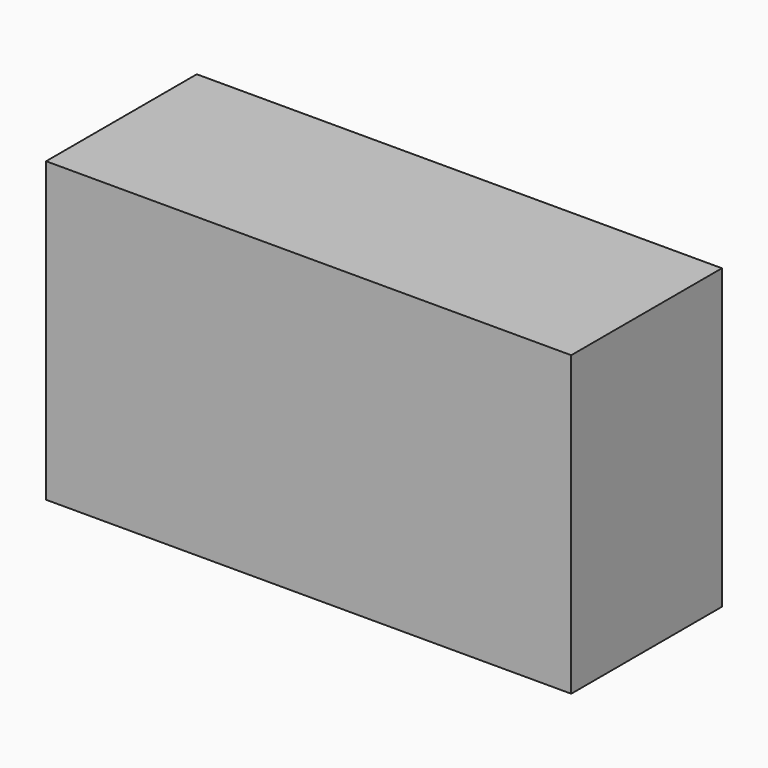
from build123d import *

# Parameters (mm, degrees)
F0_W     = 70.8139757626
F0_H     = 40.1884447783
F0_R     = 3.4207147562
F0_R_2   = 3.7382041879
F0_R_3   = 3.2776596079
F0_R_4   = 4.0769640404
F1_DEPTH = 25.4


with BuildPart() as f1:
    # F0 (on Front) → F1 (new body)
    with BuildSketch(Plane.XZ):
        with Locations((34.2290515546, 13.7905040756)):
            Rectangle(F0_W, F0_H)
        with Locations((8.6830137298, 3.9464100264)):
            Circle(F0_R, mode=Mode.SUBTRACT)
        with Locations((59.9546357989, 0)):
            Circle(F0_R_2, mode=Mode.SUBTRACT)
        with Locations((7.6532494277, 21.5003676713)):
            Circle(F0_R_3, mode=Mode.SUBTRACT)
        with Locations((58.860745281, 22.1815109253)):
            Circle(F0_R_4, mode=Mode.SUBTRACT)
        with Locations((58.860745281, 22.1815109253)):
            Circle(F0_R_4)
        with Locations((59.9546357989, 0)):
            Circle(F0_R_2)
        with Locations((8.6830137298, 3.9464100264)):
            Circle(F0_R)
        with Locations((7.6532494277, 21.5003676713)):
            Circle(F0_R_3)
    extrude(amount=F1_DEPTH)


solid = f1.part
